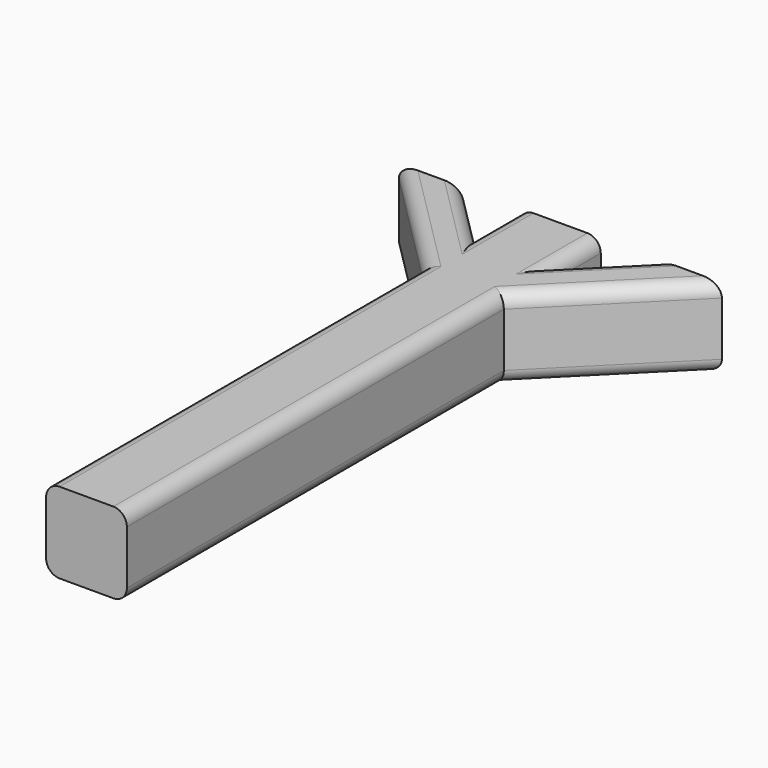
from build123d import *

# Parameters (mm, degrees)
F1_DEPTH = 300
F2_R     = 50


with BuildPart() as f1:
    # F0 (on Top) → F1 (new body)
    with BuildSketch(Plane.XY):
        Polygon((-260.881037, 629.978729), (-260.881037, -1120.021271), (39.118963, -1120.021271), (39.118963, 629.978729), (489.118963, 1079.978729), (249.118963, 1079.978729), (39.118963, 869.978729), (39.118963, 1079.978729), (-260.881037, 1079.978729), (-260.881037, 869.978729), (-470.881037, 1079.978729), (-710.881037, 1079.978729), align=None)
    extrude(amount=F1_DEPTH)

    # F2
    f2_edges = [f1.edges().sort_by_distance(p)[0] for p in [
        (-260.881037, -245.021271, 300),
        (39.118963, -245.021271, 300),
        (39.118963, -245.021271, 0),
        (-260.881037, -245.021271, 0),
        (39.118963, 974.978729, 0),
        (-260.881037, 974.978729, 0),
        (39.118963, 974.978729, 300),
        (-260.881037, 974.978729, 300),
        (-365.881037, 974.978729, 300),
        (-485.881037, 854.978729, 300),
        (264.118963, 854.978729, 300),
        (264.118963, 854.978729, 0),
        (144.118963, 974.978729, 0),
        (-365.881037, 974.978729, 0),
        (-485.881037, 854.978729, 0),
        (144.118963, 974.978729, 300),
    ]]
    fillet(f2_edges, radius=F2_R)


solid = f1.part
